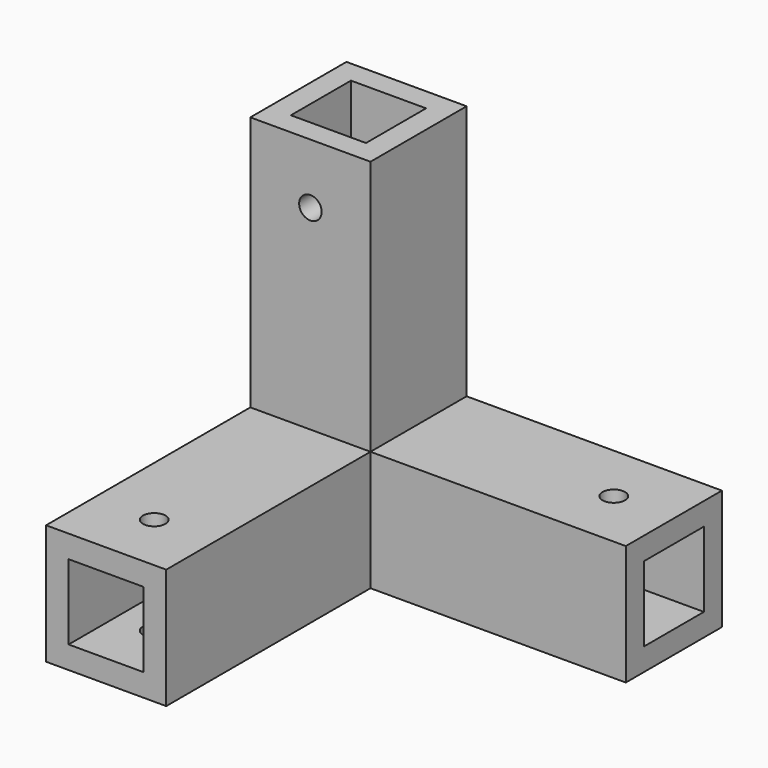
from build123d import *

# Parameters (mm, degrees)
F0_W      = 16
F0_H      = 34
F1_DEPTH  = 16
F2_W      = 10
F2_H      = 10
F3_DEPTH  = 30
F4_W      = 10
F4_H      = 10
F5_DEPTH  = 30
F6_R      = 1.5
F7_DEPTH  = 16
F8_W      = 16
F8_H      = 16
F9_DEPTH  = 34
F10_W     = 10
F10_H     = 10
F11_DEPTH = 30
F12_R     = 1.5
F13_DEPTH = 16


with BuildPart() as f1:
    # F0 (on Top) → F1 (new body)
    with BuildSketch(Plane.XY):
        Polygon((25, 16), (-25, 16), (-25, 0), (-9, 0), (25, 0), align=None)
        with Locations((-17, -17)):
            Rectangle(F0_W, F0_H)
    extrude(amount=F1_DEPTH)

    # F2 (on face) → F3 (cut)
    with BuildSketch(Plane.YZ.offset(25)):
        with Locations((8, 8)):
            Rectangle(F2_W, F2_H)
    extrude(amount=-F3_DEPTH, mode=Mode.SUBTRACT)

    # F4 (on face) → F5 (cut)
    with BuildSketch(Plane.XZ.offset(34)):
        with Locations((-17, 8)):
            Rectangle(F4_W, F4_H)
    extrude(amount=-F5_DEPTH, mode=Mode.SUBTRACT)

    # F6 (on face) → F7 (cut)
    with BuildSketch(Plane.XY.offset(16)):
        with Locations((-17, -26)):
            Circle(F6_R)
        with Locations((17, 8)):
            Circle(F6_R)
    extrude(amount=-F7_DEPTH, mode=Mode.SUBTRACT)

    # F8 (on face) → F9 (join)
    with BuildSketch(Plane.XY.offset(16)):
        with Locations((-17, 8)):
            Rectangle(F8_W, F8_H)
    extrude(amount=F9_DEPTH)

    # F10 (on face) → F11 (cut)
    with BuildSketch(Plane.XY.offset(50)):
        with Locations((-17, 8)):
            Rectangle(F10_W, F10_H)
    extrude(amount=-F11_DEPTH, mode=Mode.SUBTRACT)

    # F12 (on face) → F13 (cut)
    with BuildSketch(Plane.XZ):
        with Locations((-17, 42)):
            Circle(F12_R)
    extrude(amount=-F13_DEPTH, mode=Mode.SUBTRACT)


solid = f1.part
